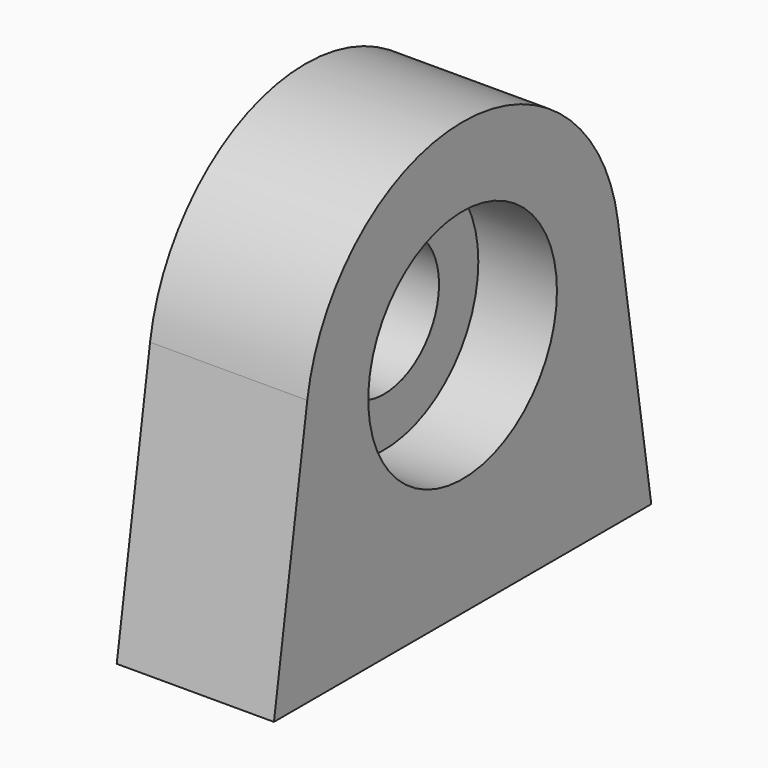
from build123d import *

# Parameters (mm, degrees)
F0_R     = 3
F1_DEPTH = 4
F0_R_2   = 1.75
F2_DEPTH = 2


with BuildPart() as f1:
    # F0 (on Right) → F1 (new body)
    with BuildSketch(Plane.YZ):
        with BuildLine():
            ThreePointArc((-31.704942, 33.396688), (-27.152848, 27.638557), (-21.765086, 32.623499))
            ThreePointArc((-21.765086, 32.623499), (-21.780144, 33.011261), (-21.82523, 33.396688))
            ThreePointArc((-21.82523, 33.396688), (-26.765086, 37.623499), (-31.704942, 33.396688))
        make_face()
        with Locations((-26.765086, 32.623499)):
            Circle(F0_R, mode=Mode.SUBTRACT)
        with BuildLine():
            ThreePointArc((-21.82523, 33.396688), (-21.780144, 33.011261), (-21.765086, 32.623499))
            ThreePointArc((-21.765086, 32.623499), (-27.152848, 27.638557), (-31.704942, 33.396688))
            Line((-31.704942, 33.396688), (-32.765086, 26.623499))
            Line((-32.765086, 26.623499), (-20.765086, 26.623499))
            Line((-20.765086, 26.623499), (-21.82523, 33.396688))
        make_face()
    extrude(amount=F1_DEPTH)

    # F0 (on Right) → F2 (join)
    with BuildSketch(Plane.YZ):
        with Locations((-26.765086, 32.623499)):
            Circle(F0_R)
        with Locations((-26.765086, 32.623499)):
            Circle(F0_R_2, mode=Mode.SUBTRACT)
    extrude(amount=F2_DEPTH)


solid = f1.part
